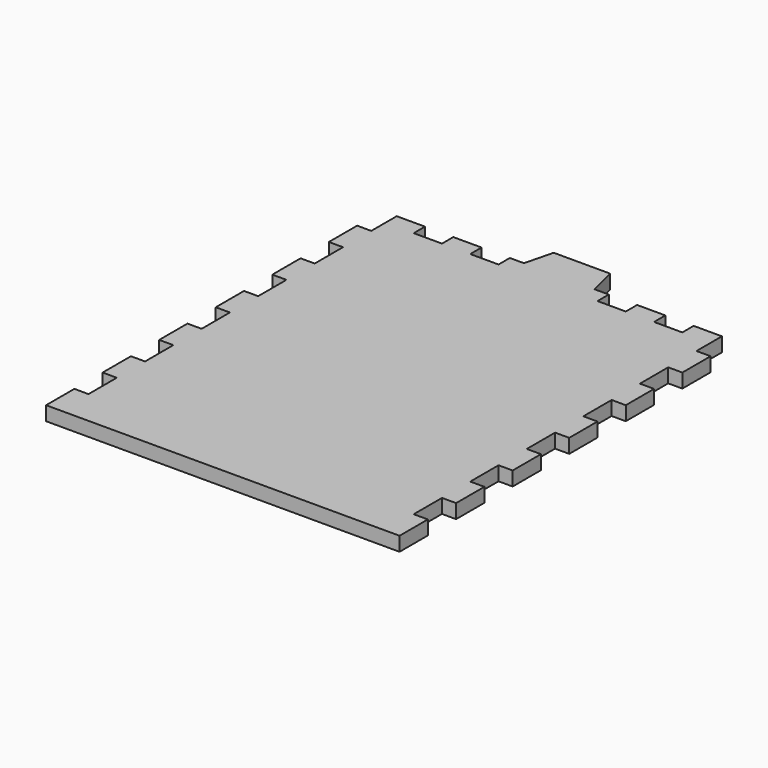
from build123d import *

# Parameters (mm, degrees)
F0_W     = 100
F0_H     = 119
F1_DEPTH = 4
F2_W     = 4
F2_H     = 10
F2_W_2   = 8
F2_H_2   = 4
F3_DEPTH = 4.001
F5_DEPTH = 4


with BuildPart() as f1:
    # F0 (on Top) → F1 (new body)
    with BuildSketch(Plane.XY):
        with Locations((50, 59.5)):
            Rectangle(F0_W, F0_H)
    extrude(amount=F1_DEPTH)

    # F2 (on face) → F3 (cut, through all)
    with BuildSketch(Plane.XY.offset(4)):
        with Locations((98, 15)):
            Rectangle(F2_W, F2_H)
        with Locations((98, 35)):
            Rectangle(F2_W, F2_H)
        with Locations((98, 55)):
            Rectangle(F2_W, F2_H)
        with Locations((98, 75)):
            Rectangle(F2_W, F2_H)
        with Locations((98, 95)):
            Rectangle(F2_W, F2_H)
        with Locations((98, 115)):
            Rectangle(F2_W, F2_H)
        with Locations((2, 15)):
            Rectangle(F2_W, F2_H)
        with Locations((2, 35)):
            Rectangle(F2_W, F2_H)
        with Locations((2, 55)):
            Rectangle(F2_W, F2_H)
        with Locations((2, 75)):
            Rectangle(F2_W, F2_H)
        with Locations((2, 95)):
            Rectangle(F2_W, F2_H)
        with Locations((2, 115)):
            Rectangle(F2_W, F2_H)
        with Locations((16, 117)):
            Rectangle(F2_W_2, F2_H_2)
        with Locations((32, 117)):
            Rectangle(F2_W_2, F2_H_2)
        with Locations((84, 117)):
            Rectangle(F2_W_2, F2_H_2)
        with Locations((68, 117)):
            Rectangle(F2_W_2, F2_H_2)
    extrude(amount=-F3_DEPTH, mode=Mode.SUBTRACT)

    # F4 (on face) → F5 (join)
    with BuildSketch(Plane.XY.offset(4)):
        Polygon((42, 127), (40, 119), (60, 119), (58, 127), align=None)
    extrude(amount=-F5_DEPTH)


solid = f1.part
